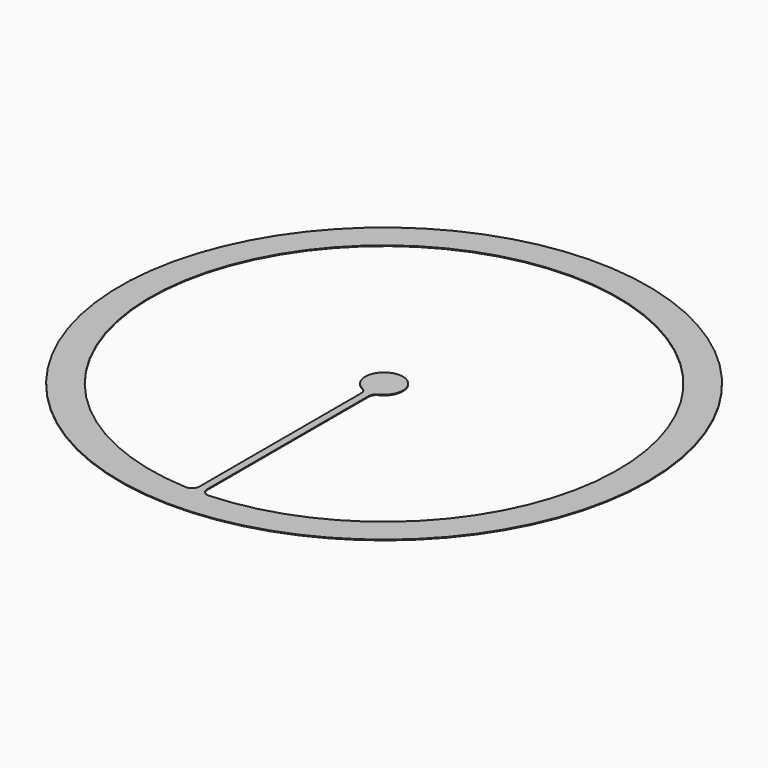
from build123d import *

# Parameters (mm, degrees)
F0_R     = 70
F1_DEPTH = 0.2
F2_R     = 2


with BuildPart() as f1:
    # F0 (on Top) → F1 (new body)
    with BuildSketch(Plane.XY):
        Circle(F0_R)
        with BuildLine():
            ThreePointArc((-1, -61.991935), (0, 62), (1, -61.991935))
            Line((1, -61.991935), (1, -4.898979))
            ThreePointArc((1, -4.898979), (0, 5), (-1, -4.898979))
            Line((-1, -4.898979), (-1, -61.991935))
        make_face(mode=Mode.SUBTRACT)
        Circle(F0_R)
        with BuildLine():
            ThreePointArc((-1, -61.991935), (0, 62), (1, -61.991935))
            Line((1, -61.991935), (1, -4.898979))
            ThreePointArc((1, -4.898979), (0, 5), (-1, -4.898979))
            Line((-1, -4.898979), (-1, -61.991935))
        make_face(mode=Mode.SUBTRACT)
    extrude(amount=F1_DEPTH)

    # F2
    f2_edges = [f1.edges().sort_by_distance(p)[0] for p in [
        (1, -4.898979, 0.1),
        (-1, -4.898979, 0.1),
        (1, -61.991935, 0.1),
        (-1, -61.991935, 0.1),
    ]]
    fillet(f2_edges, radius=F2_R)


solid = f1.part
